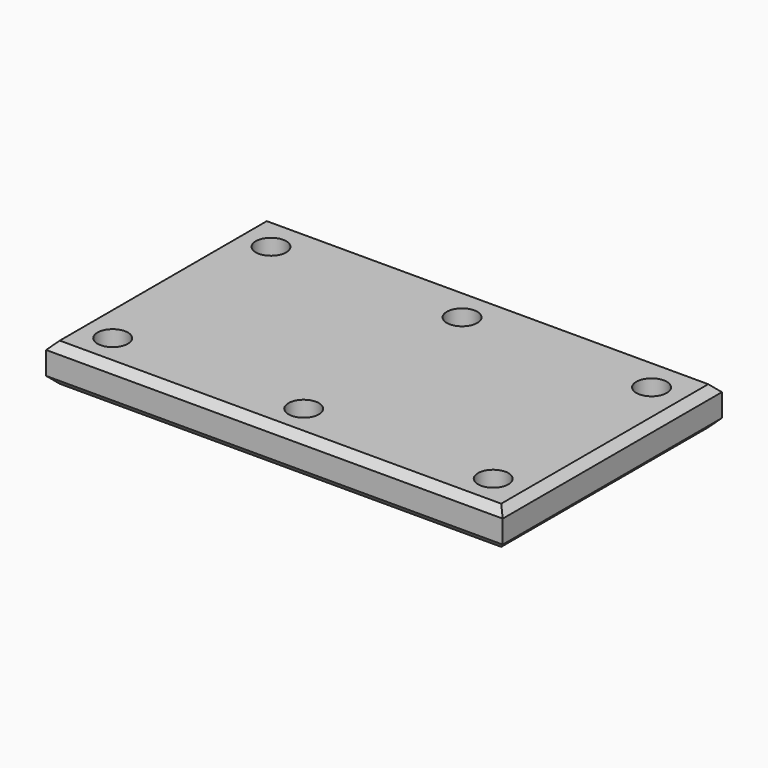
from build123d import *

# Parameters (mm, degrees)
F0_W     = 300
F0_H     = 180
F1_DEPTH = 25
F2_R     = 10
F3_DEPTH = 25.001
F4_SIZE  = 5


with BuildPart() as f1:
    # F0 (on Top) → F1 (new body)
    with BuildSketch(Plane.XY):
        Rectangle(F0_W, F0_H)
    extrude(amount=F1_DEPTH)

    # F2 (on face) → F3 (cut, through all)
    with BuildSketch(Plane.XY.offset(25)):
        with Locations((0, 64.087388)):
            Circle(F2_R)
        with Locations((-125.502721, 64.087388)):
            Circle(F2_R)
        with Locations((-125.502721, -65.912612)):
            Circle(F2_R)
        with Locations((0, -65.912612)):
            Circle(F2_R)
        with Locations((124.497279, -65.912612)):
            Circle(F2_R)
        with Locations((124.497279, 64.087388)):
            Circle(F2_R)
    extrude(amount=-F3_DEPTH, mode=Mode.SUBTRACT)

    # F4
    f4_edges = [f1.edges().sort_by_distance(p)[0] for p in [
        (0, 90, 25),
        (150, 0, 25),
        (0, -90, 25),
        (-150, 0, 25),
        (0, -90, 0),
        (150, 0, 0),
        (0, 90, 0),
        (-150, 0, 0),
    ]]
    chamfer(f4_edges, length=F4_SIZE)


solid = f1.part
